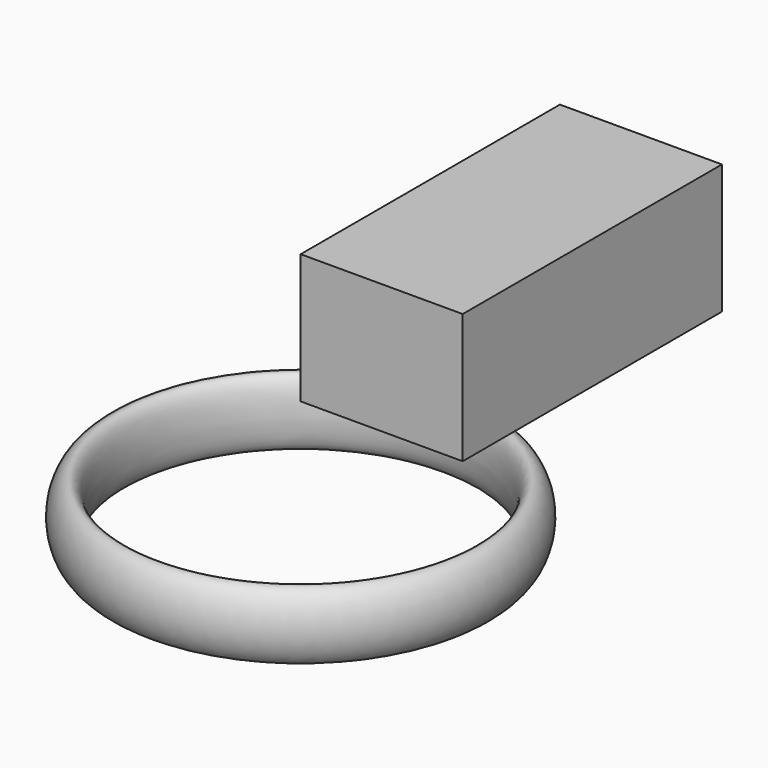
from build123d import *

# Parameters (mm, degrees)
F0_W     = 127
F0_H     = 101.6
F1_DEPTH = 127
F2_R     = 26.6167492578


with BuildPart() as f1:
    # F0 (on Front) → F1 (new body, symmetric)
    with BuildSketch(Plane.XZ):
        with Locations((37.9789983854, 34.3914222795)):
            Rectangle(F0_W, F0_H)
    extrude(amount=F1_DEPTH, both=True)


with BuildPart() as f3:
    # F2 (on Front) → F3 (revolve)
    with BuildSketch(Plane.XZ):
        with Locations((-89.2882719636, -95.885425806)):
            Circle(F2_R)
    revolve(axis=Axis((-25.5210016146, -127, 34.3914222795), (0, 0, 1)))


solid = Compound([f1.part, f3.part])
